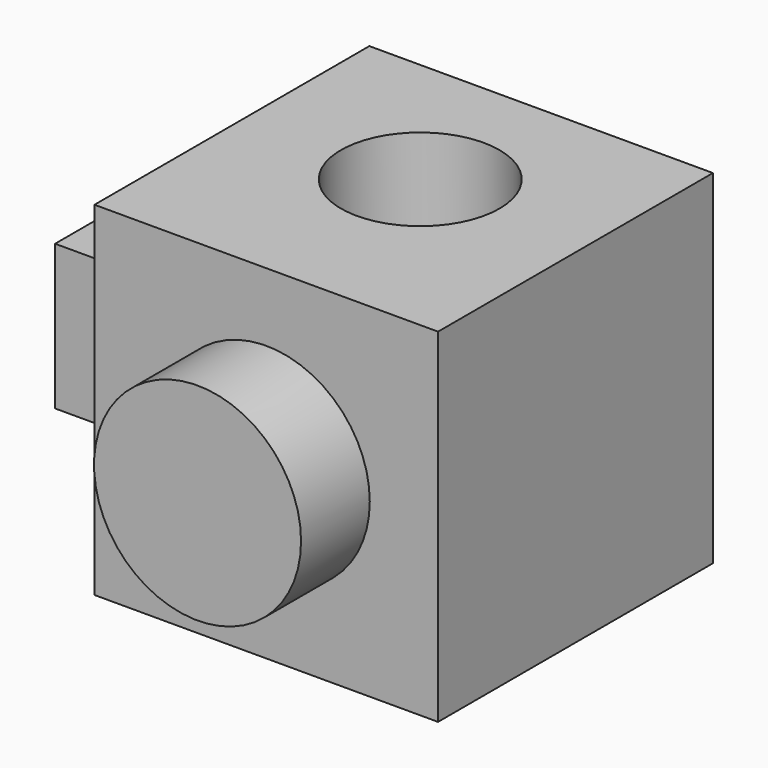
from build123d import *

# Parameters (mm, degrees)
F0_W          = 50.8
F0_H          = 50.8
F0_R          = 15.3727399922
F1_DEPTH      = 50.8
F2_R          = 15.3041702045
F3_DEPTH      = 63.5
F4_W          = 29.5049050776
F4_H          = 21.4435977895
F5_DEPTH      = 12.7
F6_R          = 11.7198726016
F7_DEPTH      = 2540
F7_DEPTH_BACK = 25.4


with BuildPart() as f1:
    # F0 (on Front) → F1 (new body)
    with BuildSketch(Plane.XZ):
        with Locations((25.4, 25.4)):
            Rectangle(F0_W, F0_H)
        with Locations((25.4, 25.4)):
            Circle(F0_R, mode=Mode.SUBTRACT)
        with Locations((25.4, 25.4)):
            Circle(F0_R)
    extrude(amount=F1_DEPTH)

    # F2 (on Front) → F3 (join)
    with BuildSketch(Plane.XZ):
        with Locations((25.4, 25.4)):
            Circle(F2_R)
    extrude(amount=F3_DEPTH)

    # F4 (on face) → F5 (join)
    with BuildSketch(Plane(origin=(0, 0, 0), x_dir=(0, -1, 0), z_dir=(-1, 0, 0))):
        with Locations((27.4524525388, 27.3782011052)):
            Rectangle(F4_W, F4_H)
    extrude(amount=F5_DEPTH)

    # F6 (on face) → F7 (cut, two sides)
    with BuildSketch(Plane.XY.offset(50.8)) as f7_sk:
        with Locations((25.4, -22.3416946828)):
            Circle(F6_R)
    extrude(amount=-F7_DEPTH, mode=Mode.SUBTRACT)
    extrude(f7_sk.sketch, amount=F7_DEPTH_BACK, mode=Mode.SUBTRACT)


solid = f1.part
